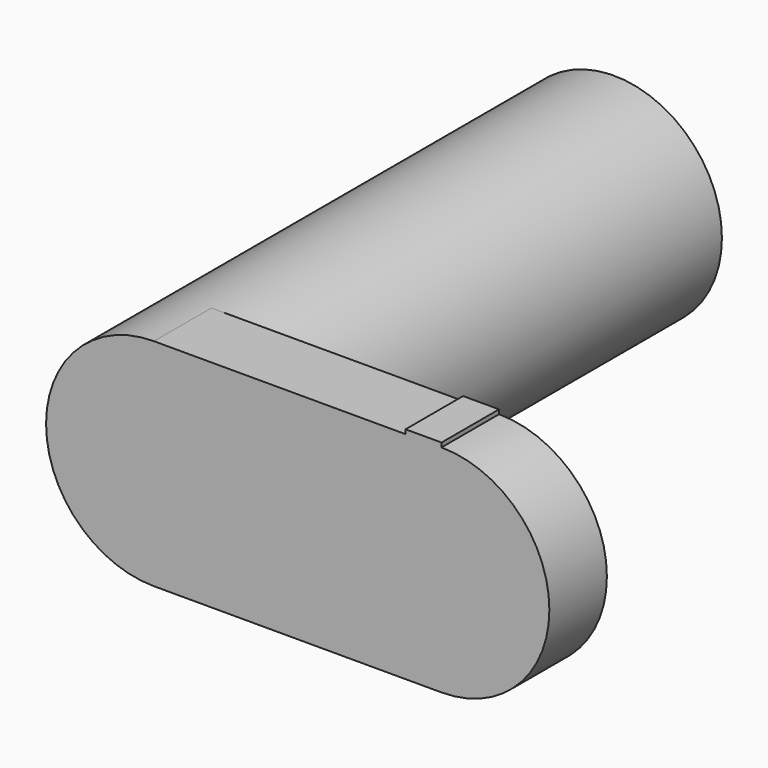
from build123d import *

# Parameters (mm, degrees)
F0_R     = 9.525
F1_DEPTH = 50.8
F3_DEPTH = 6.35
F4_W     = 3.175
F4_H     = 6.35
F5_DEPTH = 0.381


with BuildPart() as f1:
    # F0 (on Front) → F1 (new body)
    with BuildSketch(Plane.XZ):
        Circle(F0_R)
    extrude(amount=F1_DEPTH)

    # F2 (on face) → F3 (join)
    with BuildSketch(Plane.XZ.offset(50.8)):
        with BuildLine():
            Line((0, -9.525), (25.4, -9.525))
            ThreePointArc((25.4, -9.525), (34.925, 0), (25.4, 9.525))
            Line((25.4, 9.525), (0, 9.525))
            ThreePointArc((0, 9.525), (9.525, 0), (0, -9.525))
        make_face()
    extrude(amount=-F3_DEPTH)

    # F4 (on face) → F5 (join)
    with BuildSketch(Plane.XY.offset(9.525)):
        with Locations((23.8125, -47.625)):
            Rectangle(F4_W, F4_H)
    extrude(amount=F5_DEPTH)


solid = f1.part
